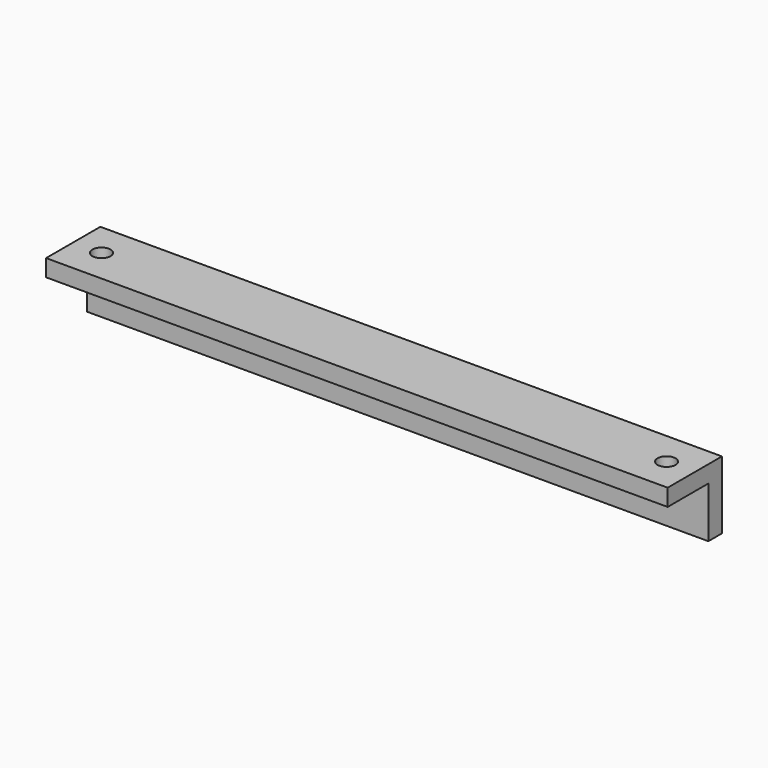
from build123d import *

# Parameters (mm, degrees)
F1_DEPTH = 55
F3_D     = 3.2
F5_D     = 3.3
F6_ANGLE = -180
F8_ANGLE = 180


with BuildPart() as f1:
    # F0 (on Right) → F1 (new body, symmetric)
    with BuildSketch(Plane.YZ):
        Polygon((-12, 0), (0, 0), (0, 12), (-3, 12), (-3, 3), (-12, 3), align=None)
    extrude(amount=F1_DEPTH, both=True)

    # F3 (through all)
    with Locations(Plane(origin=(0, 0, 0), x_dir=(1, 0, 0), z_dir=(0, 0, -1))):
        with Locations((-50, 6), (50, 6)):
            Hole(F3_D / 2)

    # F5 (through all)
    with Locations(Plane(origin=(0, 0, 0), x_dir=(-1, 0, 0), z_dir=(0, 1, 0))):
        with Locations((40, 6), (-40, 6)):
            Hole(F5_D / 2)


with BuildPart() as f1_1:
    # F6: moved
    add(f1.part.rotate(Axis((0, 0, 0), (-1, 0, 0)), F6_ANGLE))


with BuildPart() as f1_2:
    # F8: moved
    add(f1_1.part.rotate(Axis((0, 0, 17.1277970076), (0, 0, 1)), F8_ANGLE))


solid = f1_2.part
